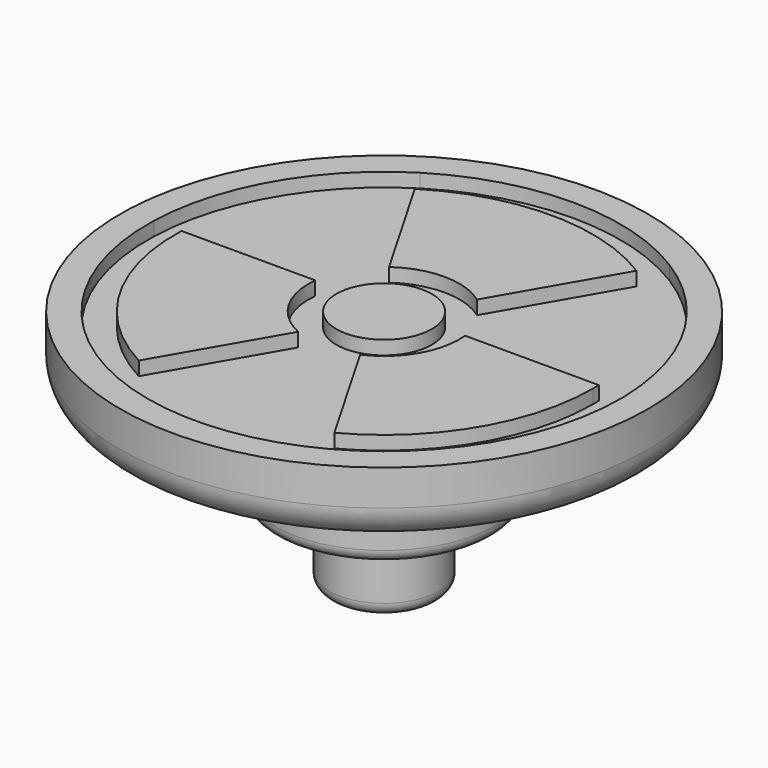
from build123d import *

# Parameters (mm, degrees)
F0_R     = 9.5631
F1_DEPTH = 2.5
F2_R     = 1.729466
F3_DEPTH = 0.5
F4_R     = 4
F5_DEPTH = 3.5
F6_R     = 1.207107
F7_R     = 2
F8_DEPTH = 2.75
F9_R     = 0.482843
F10_R    = 0.458701


with BuildPart() as f1:
    # F0 (on Top) → F1 (new body)
    with BuildSketch(Plane.XY):
        Circle(F0_R)
    extrude(amount=F1_DEPTH)

    # F2 (on face) → F3 (cut)
    with BuildSketch(Plane.XY.offset(2.5)):
        with BuildLine():
            ThreePointArc((-7.558177, 0.272846), (-6.549837, 3.78155), (-4.01538, 6.40915))
            Line((-4.01538, 6.40915), (-4.515668, 7.275673))
            ThreePointArc((-4.515668, 7.275673), (-7.415862, 4.28155), (-8.558752, 0.272846))
            Line((-8.558752, 0.272846), (-7.558177, 0.272846))
        make_face()
        with BuildLine():
            ThreePointArc((-4.01538, 6.40915), (0, 7.5631), (4.01538, 6.40915))
            Line((4.01538, 6.40915), (4.515668, 7.275673))
            ThreePointArc((4.515668, 7.275673), (0, 8.5631), (-4.515668, 7.275673))
            Line((-4.515668, 7.275673), (-4.01538, 6.40915))
        make_face()
        with BuildLine():
            Line((4.515668, 7.275673), (4.01538, 6.40915))
            ThreePointArc((4.01538, 6.40915), (6.549837, 3.78155), (7.558177, 0.272846))
            Line((7.558177, 0.272846), (8.558752, 0.272846))
            ThreePointArc((8.558752, 0.272846), (7.415862, 4.28155), (4.515668, 7.275673))
        make_face()
        with BuildLine():
            Line((8.558752, 0.272846), (7.558177, 0.272846))
            ThreePointArc((7.558177, 0.272846), (7.561869, 0.136445), (7.5631, 0))
            ThreePointArc((7.5631, 0), (6.480548, -3.8991), (3.542796, -6.681996))
            Line((3.542796, -6.681996), (4.043084, -7.54852))
            ThreePointArc((4.043084, -7.54852), (7.3467, -4.399167), (8.5631, 0))
            ThreePointArc((8.5631, 0), (8.562013, 0.136441), (8.558752, 0.272846))
        make_face()
        with BuildLine():
            ThreePointArc((3.542796, -6.681996), (0, -7.5631), (-3.542796, -6.681996))
            Line((-3.542796, -6.681996), (-4.043084, -7.54852))
            ThreePointArc((-4.043084, -7.54852), (0, -8.5631), (4.043084, -7.54852))
            Line((4.043084, -7.54852), (3.542796, -6.681996))
        make_face()
        with BuildLine():
            ThreePointArc((-3.542796, -6.681996), (-6.549837, -3.78155), (-7.558177, 0.272846))
            Line((-7.558177, 0.272846), (-8.558752, 0.272846))
            ThreePointArc((-8.558752, 0.272846), (-7.415862, -4.28155), (-4.043084, -7.54852))
            Line((-4.043084, -7.54852), (-3.542796, -6.681996))
        make_face()
        with BuildLine():
            Line((4.01538, 6.40915), (1.594189, 2.215524))
            ThreePointArc((1.594189, 2.215524), (0, 2.729466), (-1.594189, 2.215524))
            Line((-1.594189, 2.215524), (-4.01538, 6.40915))
            ThreePointArc((-4.01538, 6.40915), (-6.549837, 3.78155), (-7.558177, 0.272846))
            Line((-7.558177, 0.272846), (-2.715795, 0.272846))
            ThreePointArc((-2.715795, 0.272846), (-2.363787, -1.364733), (-1.121605, -2.48837))
            Line((-1.121605, -2.48837), (-3.542796, -6.681996))
            ThreePointArc((-3.542796, -6.681996), (0, -7.5631), (3.542796, -6.681996))
            Line((3.542796, -6.681996), (1.121605, -2.48837))
            ThreePointArc((1.121605, -2.48837), (2.363787, -1.364733), (2.715795, 0.272846))
            Line((2.715795, 0.272846), (7.558177, 0.272846))
            ThreePointArc((7.558177, 0.272846), (6.549837, 3.78155), (4.01538, 6.40915))
        make_face()
        Circle(F2_R, mode=Mode.SUBTRACT)
    extrude(amount=-F3_DEPTH, mode=Mode.SUBTRACT)

    # F4 (on face) → F5 (join)
    with BuildSketch(Plane(origin=(0, 0, 0), x_dir=(1, 0, 0), z_dir=(0, 0, -1))):
        Circle(F4_R)
    extrude(amount=F5_DEPTH)

    # F6
    f6_edges = [f1.edges().sort_by_distance(p)[0] for p in [
        (-9.5631, 0, 0),
    ]]
    fillet(f6_edges, radius=F6_R)

    # F7 (on face) → F8 (join)
    with BuildSketch(Plane(origin=(0, 0, -3.5), x_dir=(1, 0, 0), z_dir=(0, 0, -1))):
        Circle(F7_R)
    extrude(amount=F8_DEPTH)

    # F9
    f9_edges = [f1.edges().sort_by_distance(p)[0] for p in [
        (-2, 0, -6.25),
    ]]
    fillet(f9_edges, radius=F9_R)

    # F10
    f10_edges = [f1.edges().sort_by_distance(p)[0] for p in [
        (-4, 0, -3.5),
    ]]
    fillet(f10_edges, radius=F10_R)


solid = f1.part
